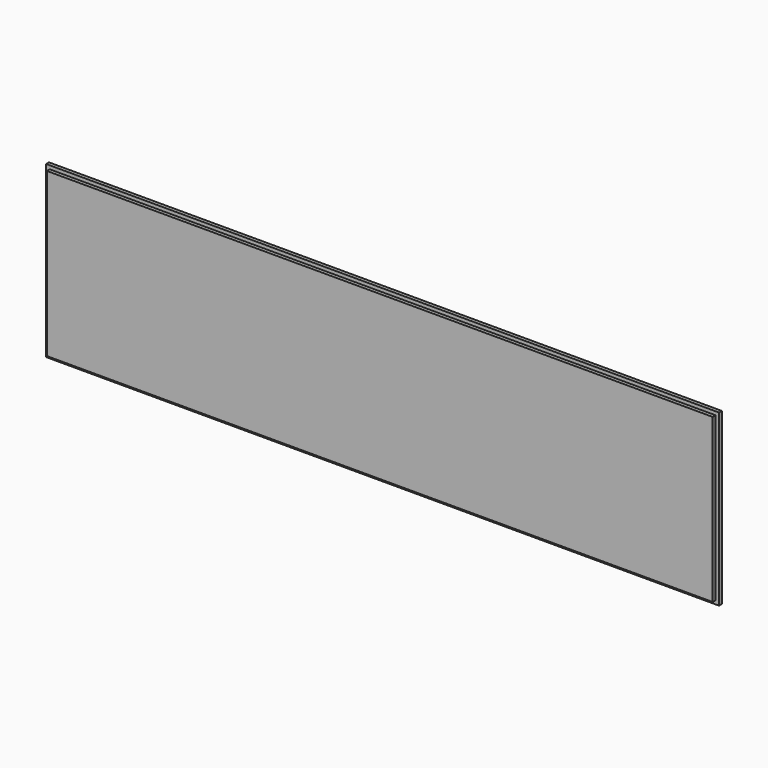
from build123d import *

# Parameters (mm, degrees)
F0_W     = 596.9
F0_H     = 152.4
F1_DEPTH = 6.35
F2_W     = 3.175
F2_H     = 3.175
F3_DEPTH = 596.901
F4_W     = 3.175
F4_H     = 3.175
F5_DEPTH = 152.4


with BuildPart() as f1:
    # F0 (on Front) → F1 (new body)
    with BuildSketch(Plane.XZ):
        Rectangle(F0_W, F0_H)
    extrude(amount=F1_DEPTH)

    # F2 (on face) → F3 (cut, through all)
    with BuildSketch(Plane.YZ.offset(298.45)):
        with Locations((-4.7625, -74.6125)):
            Rectangle(F2_W, F2_H)
        with Locations((-4.7625, 74.6125)):
            Rectangle(F2_W, F2_H)
    extrude(amount=-F3_DEPTH, mode=Mode.SUBTRACT)

    # F4 (on face) → F5 (join, through all)
    with BuildSketch(Plane.XY.offset(76.2)):
        with Locations((-300.0375, -1.5875)):
            Rectangle(F4_W, F4_H)
        with Locations((300.0375, -1.5875)):
            Rectangle(F4_W, F4_H)
    extrude(amount=-F5_DEPTH)


solid = f1.part
